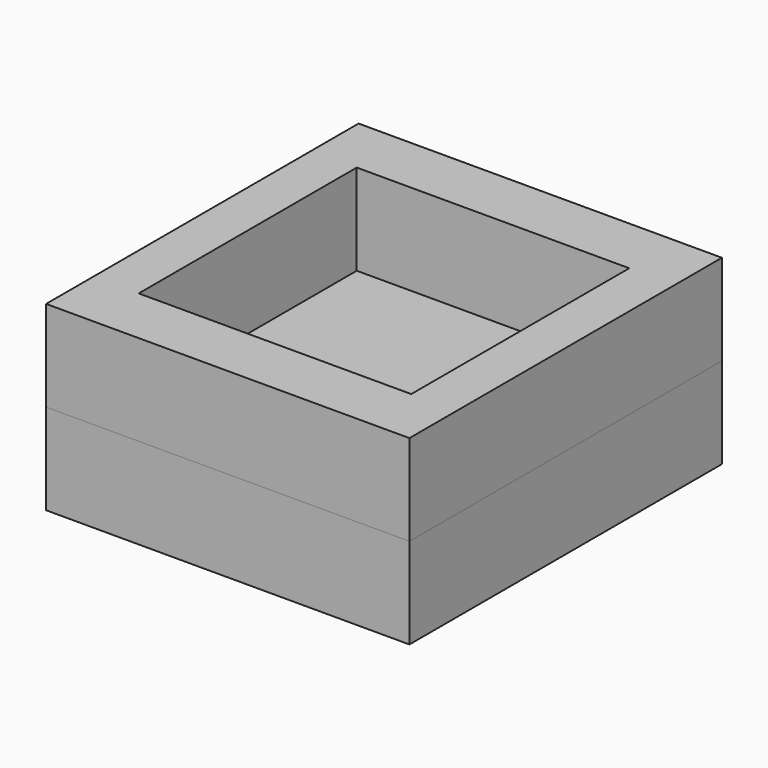
from build123d import *

# Parameters (mm, degrees)
F0_W     = 101.6
F0_H     = 109.22
F0_W_2   = 76.2
F0_H_2   = 76.2
F1_DEPTH = 25.4
F2_DEPTH = 25.4


with BuildPart() as f1:
    # F0 (on Top) → F1 (new body)
    with BuildSketch(Plane.XY):
        Rectangle(F0_W, F0_H)
        Rectangle(F0_W_2, F0_H_2, mode=Mode.SUBTRACT)
    extrude(amount=F1_DEPTH)


with BuildPart() as f2:
    # F0 (on Top) → F2 (new body)
    with BuildSketch(Plane.XY):
        Rectangle(F0_W, F0_H)
        Rectangle(F0_W_2, F0_H_2, mode=Mode.SUBTRACT)
        Rectangle(F0_W_2, F0_H_2)
    extrude(amount=-F2_DEPTH)


solid = Compound([f1.part, f2.part])
